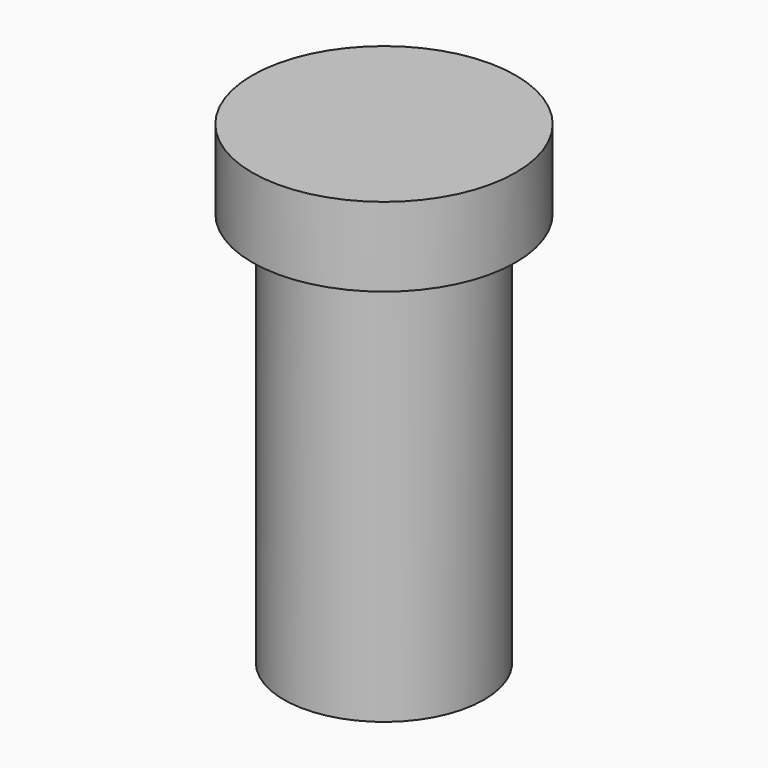
from build123d import *

# Parameters (mm, degrees)
F0_R     = 1.9
F1_DEPTH = 7.5
F0_R_2   = 2.5
F2_DEPTH = 1.5


with BuildPart() as f1:
    # F0 (on Top) → F1 (new body)
    with BuildSketch(Plane.XY):
        Circle(F0_R)
    extrude(amount=-F1_DEPTH)

    # F0 (on Top) → F2 (join)
    with BuildSketch(Plane.XY):
        Circle(F0_R_2)
        Circle(F0_R, mode=Mode.SUBTRACT)
        Circle(F0_R)
    extrude(amount=F2_DEPTH)


solid = f1.part
